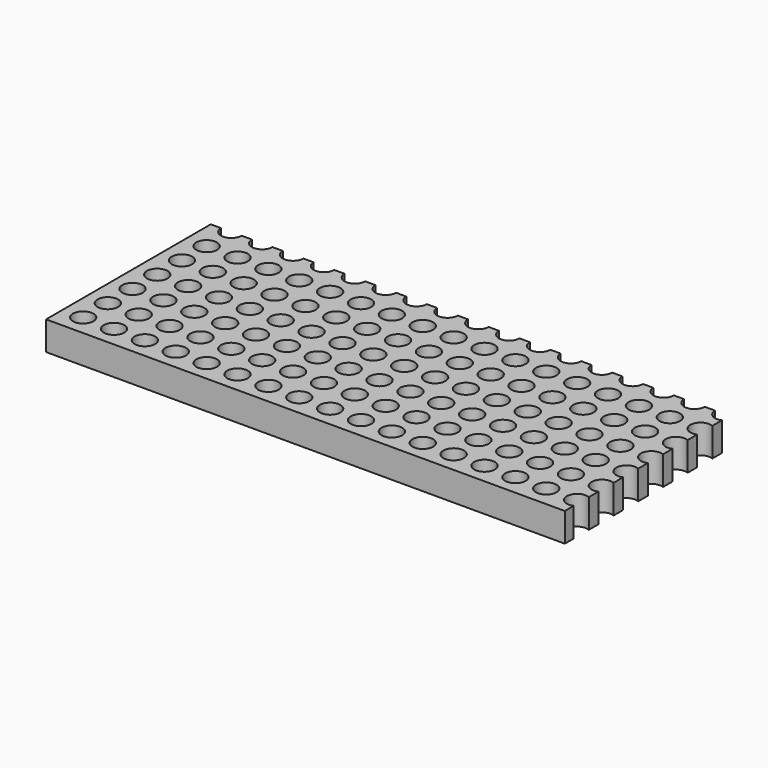
from build123d import *

# Parameters (mm, degrees)
F0_W     = 160.02
F0_H     = 63.5
F1_DEPTH = 8.89
F2_R     = 3.175
F3_DEPTH = 25.4


with BuildPart() as f1:
    # F0 (on Top) → F1 (new body)
    with BuildSketch(Plane.XY):
        with Locations((80.01, 31.75)):
            Rectangle(F0_W, F0_H)
    extrude(amount=F1_DEPTH)

    # F2 (on face) → F3 (cut)
    with BuildSketch(Plane.XY.offset(8.89)):
        with BuildLine():
            ThreePointArc((3.175, 6.35), (6.35, 3.175), (9.525, 6.35))
            ThreePointArc((9.525, 6.35), (6.35, 9.525), (3.175, 6.35))
        make_face()
        with Locations((6.35, 15.875)):
            Circle(F2_R)
        with Locations((6.35, 25.4)):
            Circle(F2_R)
        with Locations((6.35, 34.925)):
            Circle(F2_R)
        with Locations((6.35, 44.45)):
            Circle(F2_R)
        with Locations((6.35, 53.975)):
            Circle(F2_R)
        with Locations((6.35, 63.5)):
            Circle(F2_R)
        with Locations((15.875, 6.35)):
            Circle(F2_R)
        with Locations((15.875, 15.875)):
            Circle(F2_R)
        with Locations((15.875, 25.4)):
            Circle(F2_R)
        with Locations((15.875, 34.925)):
            Circle(F2_R)
        with Locations((15.875, 44.45)):
            Circle(F2_R)
        with Locations((15.875, 53.975)):
            Circle(F2_R)
        with Locations((15.875, 63.5)):
            Circle(F2_R)
        with Locations((25.4, 6.35)):
            Circle(F2_R)
        with Locations((25.4, 15.875)):
            Circle(F2_R)
        with Locations((25.4, 25.4)):
            Circle(F2_R)
        with Locations((25.4, 34.925)):
            Circle(F2_R)
        with Locations((25.4, 44.45)):
            Circle(F2_R)
        with Locations((25.4, 53.975)):
            Circle(F2_R)
        with Locations((25.4, 63.5)):
            Circle(F2_R)
        with Locations((34.925, 6.35)):
            Circle(F2_R)
        with Locations((34.925, 15.875)):
            Circle(F2_R)
        with Locations((34.925, 25.4)):
            Circle(F2_R)
        with Locations((34.925, 34.925)):
            Circle(F2_R)
        with Locations((34.925, 44.45)):
            Circle(F2_R)
        with Locations((34.925, 53.975)):
            Circle(F2_R)
        with Locations((34.925, 63.5)):
            Circle(F2_R)
        with Locations((44.45, 6.35)):
            Circle(F2_R)
        with Locations((44.45, 15.875)):
            Circle(F2_R)
        with Locations((44.45, 25.4)):
            Circle(F2_R)
        with Locations((44.45, 34.925)):
            Circle(F2_R)
        with Locations((44.45, 44.45)):
            Circle(F2_R)
        with Locations((44.45, 53.975)):
            Circle(F2_R)
        with Locations((44.45, 63.5)):
            Circle(F2_R)
        with Locations((53.975, 6.35)):
            Circle(F2_R)
        with Locations((53.975, 15.875)):
            Circle(F2_R)
        with Locations((53.975, 25.4)):
            Circle(F2_R)
        with Locations((53.975, 34.925)):
            Circle(F2_R)
        with Locations((53.975, 44.45)):
            Circle(F2_R)
        with Locations((53.975, 53.975)):
            Circle(F2_R)
        with Locations((53.975, 63.5)):
            Circle(F2_R)
        with Locations((63.5, 6.35)):
            Circle(F2_R)
        with Locations((63.5, 15.875)):
            Circle(F2_R)
        with Locations((63.5, 25.4)):
            Circle(F2_R)
        with Locations((63.5, 34.925)):
            Circle(F2_R)
        with Locations((63.5, 44.45)):
            Circle(F2_R)
        with Locations((63.5, 53.975)):
            Circle(F2_R)
        with Locations((63.5, 63.5)):
            Circle(F2_R)
        with Locations((73.025, 6.35)):
            Circle(F2_R)
        with Locations((73.025, 15.875)):
            Circle(F2_R)
        with Locations((73.025, 25.4)):
            Circle(F2_R)
        with Locations((73.025, 34.925)):
            Circle(F2_R)
        with Locations((73.025, 44.45)):
            Circle(F2_R)
        with Locations((73.025, 53.975)):
            Circle(F2_R)
        with Locations((73.025, 63.5)):
            Circle(F2_R)
        with Locations((82.55, 6.35)):
            Circle(F2_R)
        with Locations((82.55, 15.875)):
            Circle(F2_R)
        with Locations((82.55, 25.4)):
            Circle(F2_R)
        with Locations((82.55, 34.925)):
            Circle(F2_R)
        with Locations((82.55, 44.45)):
            Circle(F2_R)
        with Locations((82.55, 53.975)):
            Circle(F2_R)
        with Locations((82.55, 63.5)):
            Circle(F2_R)
        with Locations((92.075, 6.35)):
            Circle(F2_R)
        with Locations((92.075, 15.875)):
            Circle(F2_R)
        with Locations((92.075, 25.4)):
            Circle(F2_R)
        with Locations((92.075, 34.925)):
            Circle(F2_R)
        with Locations((92.075, 44.45)):
            Circle(F2_R)
        with Locations((92.075, 53.975)):
            Circle(F2_R)
        with Locations((92.075, 63.5)):
            Circle(F2_R)
        with Locations((101.6, 6.35)):
            Circle(F2_R)
        with Locations((101.6, 15.875)):
            Circle(F2_R)
        with Locations((101.6, 25.4)):
            Circle(F2_R)
        with Locations((101.6, 34.925)):
            Circle(F2_R)
        with Locations((101.6, 44.45)):
            Circle(F2_R)
        with Locations((101.6, 53.975)):
            Circle(F2_R)
        with Locations((101.6, 63.5)):
            Circle(F2_R)
        with Locations((111.125, 6.35)):
            Circle(F2_R)
        with Locations((111.125, 15.875)):
            Circle(F2_R)
        with Locations((111.125, 25.4)):
            Circle(F2_R)
        with Locations((111.125, 34.925)):
            Circle(F2_R)
        with Locations((111.125, 44.45)):
            Circle(F2_R)
        with Locations((111.125, 53.975)):
            Circle(F2_R)
        with Locations((111.125, 63.5)):
            Circle(F2_R)
        with Locations((120.65, 6.35)):
            Circle(F2_R)
        with Locations((120.65, 15.875)):
            Circle(F2_R)
        with Locations((120.65, 25.4)):
            Circle(F2_R)
        with Locations((120.65, 34.925)):
            Circle(F2_R)
        with Locations((120.65, 44.45)):
            Circle(F2_R)
        with Locations((120.65, 53.975)):
            Circle(F2_R)
        with Locations((120.65, 63.5)):
            Circle(F2_R)
        with Locations((130.175, 6.35)):
            Circle(F2_R)
        with Locations((130.175, 15.875)):
            Circle(F2_R)
        with Locations((130.175, 25.4)):
            Circle(F2_R)
        with Locations((130.175, 34.925)):
            Circle(F2_R)
        with Locations((130.175, 44.45)):
            Circle(F2_R)
        with Locations((130.175, 53.975)):
            Circle(F2_R)
        with Locations((130.175, 63.5)):
            Circle(F2_R)
        with Locations((139.7, 6.35)):
            Circle(F2_R)
        with Locations((139.7, 15.875)):
            Circle(F2_R)
        with Locations((139.7, 25.4)):
            Circle(F2_R)
        with Locations((139.7, 34.925)):
            Circle(F2_R)
        with Locations((139.7, 44.45)):
            Circle(F2_R)
        with Locations((139.7, 53.975)):
            Circle(F2_R)
        with Locations((139.7, 63.5)):
            Circle(F2_R)
        with Locations((149.225, 6.35)):
            Circle(F2_R)
        with Locations((149.225, 15.875)):
            Circle(F2_R)
        with Locations((149.225, 25.4)):
            Circle(F2_R)
        with Locations((149.225, 34.925)):
            Circle(F2_R)
        with Locations((149.225, 44.45)):
            Circle(F2_R)
        with Locations((149.225, 53.975)):
            Circle(F2_R)
        with Locations((149.225, 63.5)):
            Circle(F2_R)
        with Locations((158.75, 6.35)):
            Circle(F2_R)
        with Locations((158.75, 15.875)):
            Circle(F2_R)
        with Locations((158.75, 25.4)):
            Circle(F2_R)
        with Locations((158.75, 34.925)):
            Circle(F2_R)
        with Locations((158.75, 44.45)):
            Circle(F2_R)
        with Locations((158.75, 53.975)):
            Circle(F2_R)
        with Locations((158.75, 63.5)):
            Circle(F2_R)
        with Locations((6.35, 73.025)):
            Circle(F2_R)
        with Locations((6.35, 82.55)):
            Circle(F2_R)
        with Locations((15.875, 73.025)):
            Circle(F2_R)
        with Locations((15.875, 82.55)):
            Circle(F2_R)
        with Locations((25.4, 73.025)):
            Circle(F2_R)
        with Locations((25.4, 82.55)):
            Circle(F2_R)
        with Locations((34.925, 73.025)):
            Circle(F2_R)
        with Locations((34.925, 82.55)):
            Circle(F2_R)
        with Locations((44.45, 73.025)):
            Circle(F2_R)
        with Locations((44.45, 82.55)):
            Circle(F2_R)
        with Locations((53.975, 73.025)):
            Circle(F2_R)
        with Locations((53.975, 82.55)):
            Circle(F2_R)
        with Locations((63.5, 73.025)):
            Circle(F2_R)
        with Locations((63.5, 82.55)):
            Circle(F2_R)
        with Locations((73.025, 73.025)):
            Circle(F2_R)
        with Locations((73.025, 82.55)):
            Circle(F2_R)
        with Locations((82.55, 73.025)):
            Circle(F2_R)
        with Locations((82.55, 82.55)):
            Circle(F2_R)
        with Locations((92.075, 73.025)):
            Circle(F2_R)
        with Locations((92.075, 82.55)):
            Circle(F2_R)
        with Locations((101.6, 73.025)):
            Circle(F2_R)
        with Locations((101.6, 82.55)):
            Circle(F2_R)
        with Locations((111.125, 73.025)):
            Circle(F2_R)
        with Locations((111.125, 82.55)):
            Circle(F2_R)
        with Locations((120.65, 73.025)):
            Circle(F2_R)
        with Locations((120.65, 82.55)):
            Circle(F2_R)
        with Locations((130.175, 73.025)):
            Circle(F2_R)
        with Locations((130.175, 82.55)):
            Circle(F2_R)
        with Locations((139.7, 73.025)):
            Circle(F2_R)
        with Locations((139.7, 82.55)):
            Circle(F2_R)
        with Locations((149.225, 73.025)):
            Circle(F2_R)
        with Locations((149.225, 82.55)):
            Circle(F2_R)
        with Locations((158.75, 73.025)):
            Circle(F2_R)
        with Locations((158.75, 82.55)):
            Circle(F2_R)
    extrude(amount=-F3_DEPTH, mode=Mode.SUBTRACT)


solid = f1.part
